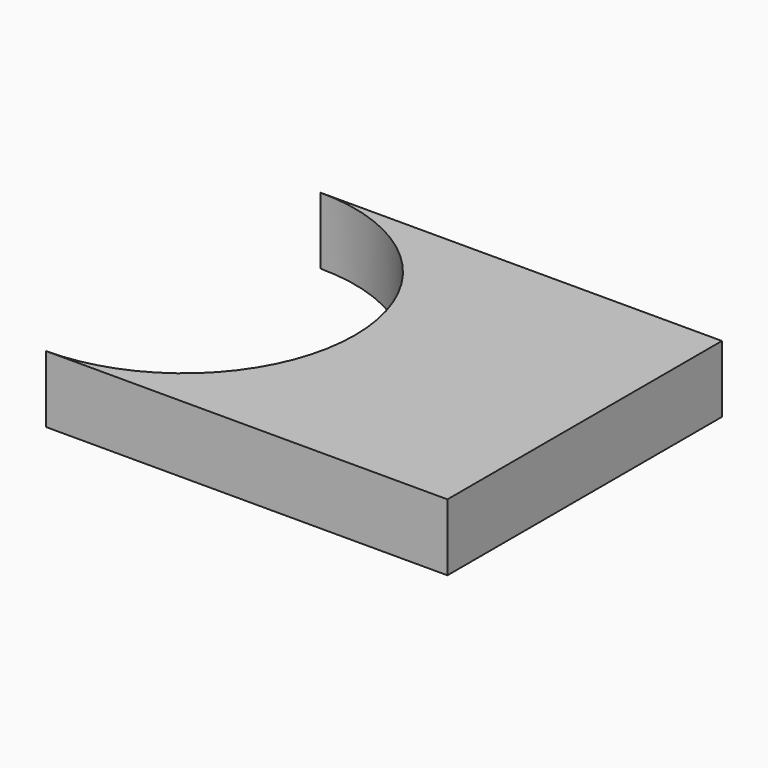
from build123d import *

# Parameters (mm, degrees)
F1_DEPTH = 12.7


with BuildPart() as f1:
    # F0 (on Top) → F1 (new body)
    with BuildSketch(Plane.XY):
        with BuildLine():
            ThreePointArc((-5.532208, 0), (-15.071094, -23.028906), (-38.1, -32.567792))
            Line((-38.1, -32.567792), (38.1, -32.567792))
            Line((38.1, -32.567792), (38.1, 32.567792))
            Line((38.1, 32.567792), (-38.1, 32.567792))
            ThreePointArc((-38.1, 32.567792), (-15.071094, 23.028906), (-5.532208, 0))
        make_face()
    extrude(amount=F1_DEPTH)


solid = f1.part
